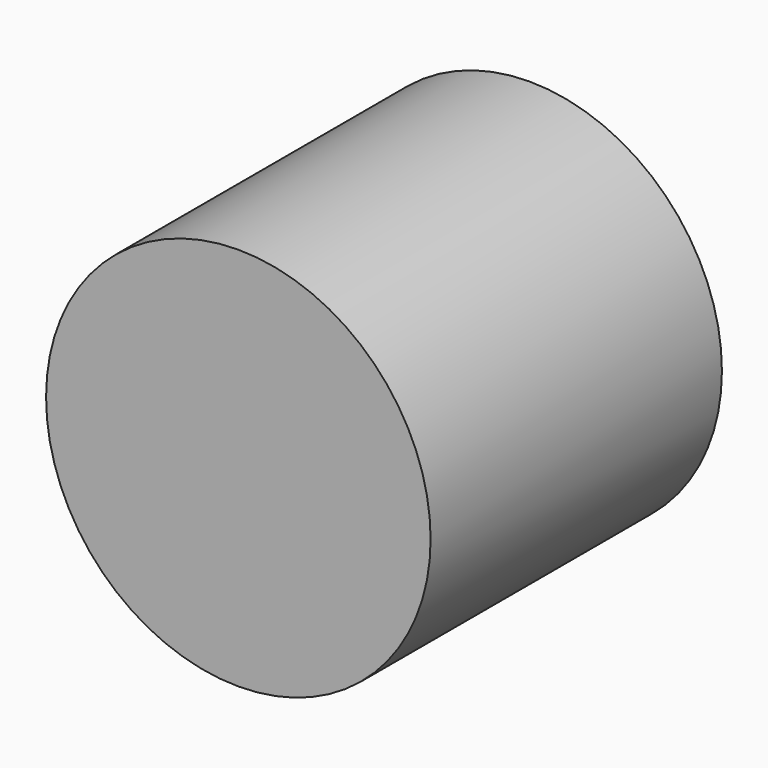
from build123d import *

# Parameters (mm, degrees)
F0_R     = 17.5
F1_DEPTH = 30
F2_R     = 38.5
F3_DEPTH = 4.5
F4_R     = 122.5
F5_DEPTH = 232
F6_R     = 5
F7_DEPTH = 25


with BuildPart() as f1:
    # F0 (on Front) → F1 (new body)
    with BuildSketch(Plane.XZ):
        Circle(F0_R)
    extrude(amount=-F1_DEPTH)

    # F2 (on Front) → F3 (join)
    with BuildSketch(Plane.XZ):
        Circle(F2_R)
    extrude(amount=-F3_DEPTH)

    # F4 (on Front) → F5 (join)
    with BuildSketch(Plane.XZ):
        Circle(F4_R)
    extrude(amount=F5_DEPTH)

    # F6 (on face) → F7 (cut)
    with BuildSketch(Plane(origin=(0, 0, 0), x_dir=(-1, 0, 0), z_dir=(0, 1, 0))):
        with Locations((-99, 0)):
            Circle(F6_R)
        with Locations((0, 99)):
            Circle(F6_R)
        with Locations((97.495968, 17.19117)):
            Circle(F6_R)
        with Locations((-17.19117, -97.495968)):
            Circle(F6_R)
    extrude(amount=-F7_DEPTH, mode=Mode.SUBTRACT)


solid = f1.part
